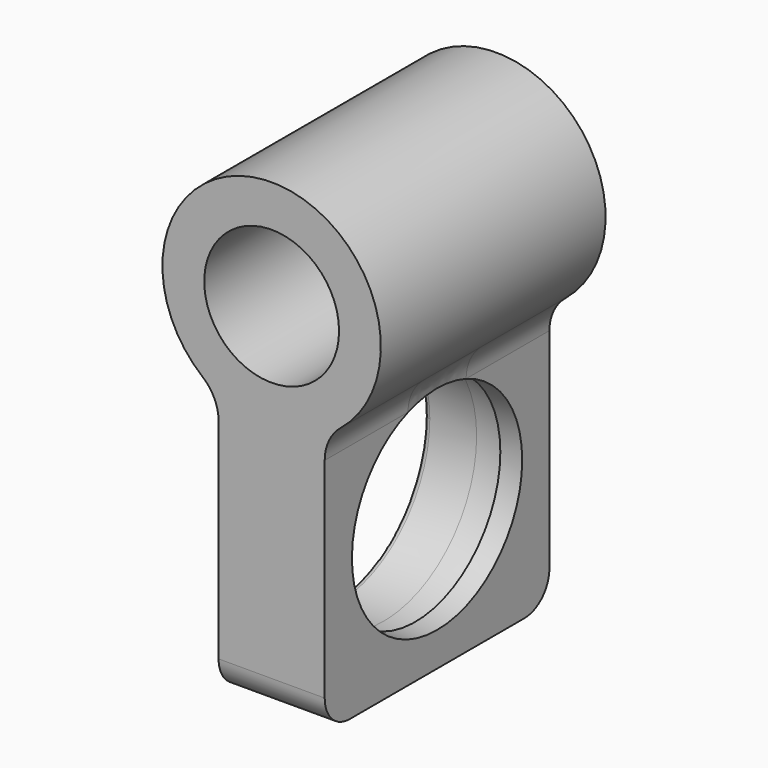
from build123d import *

# Parameters (mm, degrees)
F0_W          = 45
F0_H          = 45
F0_R          = 18.55
F0_R_2        = 17.05
F2_DEPTH      = 8.5
F1_R          = 17.5
F1_R_2        = 10.8
F3_DEPTH      = 22.5
F4_DEPTH      = 22.5
F5_R          = 7
F6_DEPTH      = 25
F6_DEPTH_BACK = 5
F7_R          = 1
F8_R          = 5


with BuildPart() as f2:
    # F0 (on Right) → F2 (new body, symmetric)
    with BuildSketch(Plane.YZ):
        Rectangle(F0_W, F0_H)
        Circle(F0_R, mode=Mode.SUBTRACT)
        Circle(F0_R)
        Circle(F0_R_2, mode=Mode.SUBTRACT)
    extrude(amount=F2_DEPTH, both=True)

    # F1 (on Front) → F3 (join, symmetric)
    with BuildSketch(Plane.XZ):
        with Locations((0, 35)):
            Circle(F1_R)
        with Locations((0, 35)):
            Circle(F1_R_2, mode=Mode.SUBTRACT)
        with Locations((0, 35)):
            Circle(F1_R_2)
    extrude(amount=F3_DEPTH, both=True)

    # F1 (on Front) → F4 (cut, symmetric)
    with BuildSketch(Plane.XZ):
        with Locations((0, 35)):
            Circle(F1_R_2)
    extrude(amount=F4_DEPTH, both=True, mode=Mode.SUBTRACT)

    # F5
    f5_edges = [f2.edges().sort_by_distance(p)[0] for p in [
        (-8.5, 0, 19.702941),
        (8.5, 0, 19.702941),
    ]]
    fillet(f5_edges, radius=F5_R)

    # F0 (on Right) → F6 (cut, two sides)
    with BuildSketch(Plane.YZ) as f6_sk:
        Circle(F0_R)
        Circle(F0_R_2, mode=Mode.SUBTRACT)
    extrude(amount=-F6_DEPTH, mode=Mode.SUBTRACT)
    extrude(f6_sk.sketch, amount=F6_DEPTH_BACK, mode=Mode.SUBTRACT)

    # F7
    f7_edges = [f2.edges().sort_by_distance(p)[0] for p in [
        (-8.5, -9.241811, -16.083887),
        (-8.5, 16.083887, 9.241811),
        (-8.912254, 0, 18.55),
    ]]
    fillet(f7_edges, radius=F7_R)

    # F8
    f8_edges = [f2.edges().sort_by_distance(p)[0] for p in [
        (0, 22.5, -22.5),
        (0, -22.5, -22.5),
    ]]
    fillet(f8_edges, radius=F8_R)


solid = f2.part
